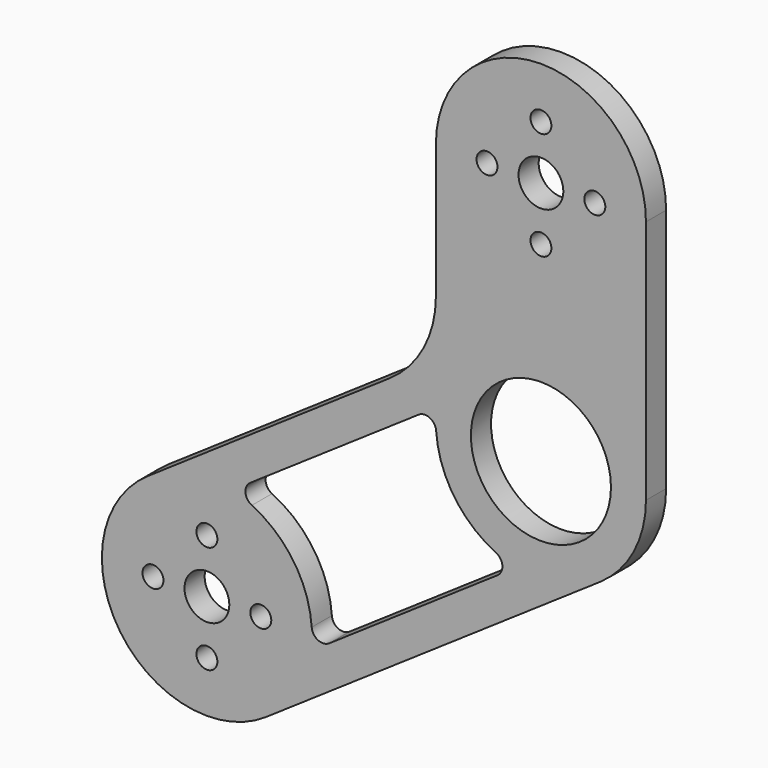
from build123d import *

# Parameters (mm, degrees)
F0_R     = 1.89865
F0_R_2   = 4.064
F0_R_3   = 12.7
F1_DEPTH = 4.572


with BuildPart() as f1:
    # F0 (on Front) → F1 (new body)
    with BuildSketch(Plane.XZ):
        with BuildLine():
            ThreePointArc((-10.726445, 15.743121), (-15.743121, -10.726445), (10.726445, -15.743121))
            Line((10.726445, -15.743121), (71.305445, 25.531879))
            ThreePointArc((71.305445, 25.531879), (77.42004, 32.370964), (79.629, 41.275))
            Line((79.629, 41.275), (79.629, 85.725))
            ThreePointArc((79.629, 85.725), (60.579, 104.775), (41.529, 85.725))
            Line((41.529, 85.725), (41.529, 61.418873))
            ThreePointArc((41.529, 61.418873), (39.32004, 52.514837), (33.205445, 45.675751))
            Line((33.205445, 45.675751), (-10.726445, 15.743121))
        make_face()
        with Locations((0, -9.779)):
            Circle(F0_R, mode=Mode.SUBTRACT)
        with Locations((-9.779, 0)):
            Circle(F0_R, mode=Mode.SUBTRACT)
        Circle(F0_R_2, mode=Mode.SUBTRACT)
        with Locations((0, 9.779)):
            Circle(F0_R, mode=Mode.SUBTRACT)
        with Locations((9.779, 0)):
            Circle(F0_R, mode=Mode.SUBTRACT)
        with BuildLine():
            Line((7.876183, 20.734036), (38.40089, 41.531793))
            ThreePointArc((38.40089, 41.531793), (40.433628, 41.67994), (41.572414, 39.989632))
            ThreePointArc((41.572414, 39.989632), (44.835879, 30.548555), (52.428093, 24.056835))
            ThreePointArc((52.428093, 24.056835), (53.584488, 22.378525), (52.702817, 20.540964))
            Line((52.702817, 20.540964), (22.17811, -0.256793))
            ThreePointArc((22.17811, -0.256793), (20.145372, -0.40494), (19.006586, 1.285368))
            ThreePointArc((19.006586, 1.285368), (15.743121, 10.726445), (8.150907, 17.218165))
            ThreePointArc((8.150907, 17.218165), (6.994512, 18.896475), (7.876183, 20.734036))
        make_face(mode=Mode.SUBTRACT)
        with Locations((60.579, 41.275)):
            Circle(F0_R_3, mode=Mode.SUBTRACT)
        with Locations((50.8, 85.725)):
            Circle(F0_R, mode=Mode.SUBTRACT)
        with Locations((60.579, 75.946)):
            Circle(F0_R, mode=Mode.SUBTRACT)
        with Locations((60.579, 85.725)):
            Circle(F0_R_2, mode=Mode.SUBTRACT)
        with Locations((70.358, 85.725)):
            Circle(F0_R, mode=Mode.SUBTRACT)
        with Locations((60.579, 95.504)):
            Circle(F0_R, mode=Mode.SUBTRACT)
    extrude(amount=F1_DEPTH)


solid = f1.part
